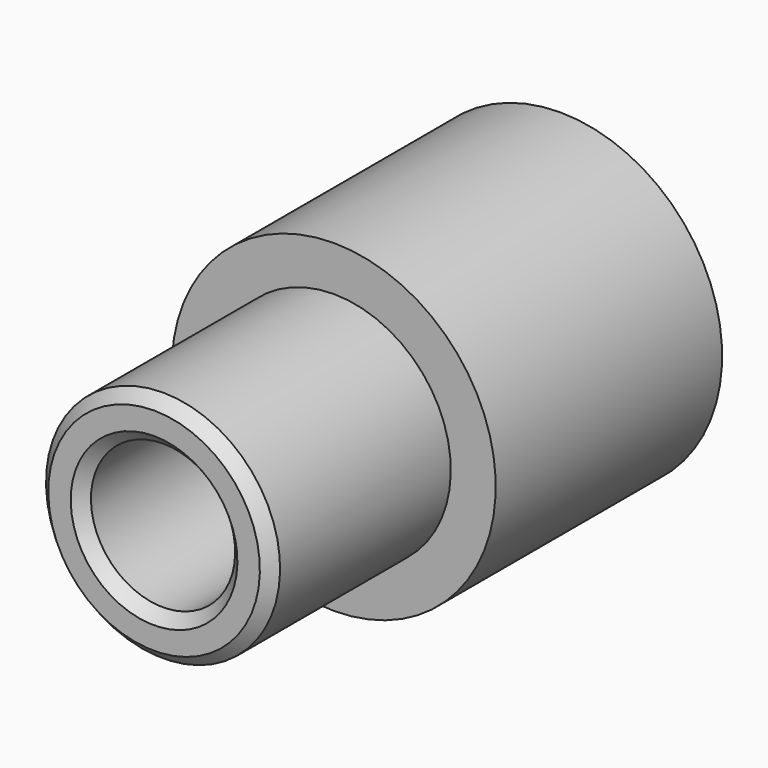
from build123d import *

# Parameters (mm, degrees)
F2_SIZE = 0.25


with BuildPart() as f1:
    # F0 (on Right) → F1 (revolve)
    with BuildSketch(Plane.YZ):
        Polygon((-2.891378, 2.605), (-7.891378, 2.605), (-7.891378, 1.605), (-1.591378, 1.605), (-1.591378, 1.315), (1.908622, 1.315), (1.908622, 1.915), (3.408622, 1.915), (3.408622, 3.605), (-2.891378, 3.605), align=None)
    revolve(axis=Axis((0, 0.733622, 0), (0, 1, 0)))

    # F2
    f2_edges = [f1.edges().sort_by_distance(p)[0] for p in [
        (0, 3.408622, -1.915),
        (0, -7.891378, -1.605),
        (0, -7.891378, -2.605),
        (0, -1.591378, -1.315),
    ]]
    chamfer(f2_edges, length=F2_SIZE)


solid = f1.part
